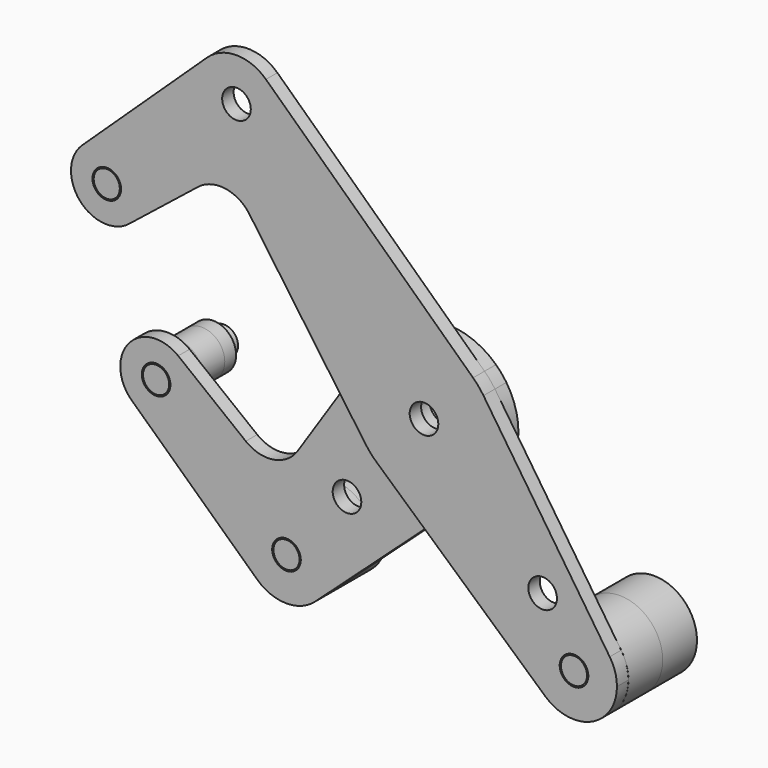
from build123d import *

# Parameters (mm, degrees)
F0_R      = 3.175
F0_R_2    = 3.96875
F2_DEPTH  = 3.175
F3_DEPTH  = 3.175
F4_R      = 9.525
F6_DEPTH  = 12.7
F4_R_2    = 5.08
F5_R      = 9.525
F5_R_2    = 5.08
F7_OFFSET = 0.0254
F8_SIZE   = 0.254
F8_2_SIZE = 0.254
F8_3_SIZE = 0.254
F8_4_SIZE = 0.254


with BuildPart() as f2:
    # F0 (on Front) → F2 (new body)
    with BuildSketch(Plane.XZ):
        with BuildLine():
            ThreePointArc((26.9262440233, -45.4676864135), (37.1682864336, -47.0737686401), (42.8102251661, -38.3762138003))
            ThreePointArc((42.8102251661, -38.3762138003), (42.3999454948, -35.6108027404), (41.2044512386, -33.0836262089))
            ThreePointArc((41.2044512386, -33.0836262089), (27.0442454474, -31.1806737127), (26.9262440233, -45.4676864135))
        make_face()
        with Locations((33.2852251661, -38.3762138003)):
            Circle(F0_R, mode=Mode.SUBTRACT)
        with BuildLine():
            ThreePointArc((-32.0815314576, 47.9702672503), (-32.8608164346, 51.7436071154), (-35.0711574392, 54.8995176744))
            ThreePointArc((-35.0711574392, 54.8995176744), (-41.6065314576, 57.4952672503), (-48.1419054761, 54.8995176744))
            ThreePointArc((-48.1419054761, 54.8995176744), (-45.3798713227, 39.2245522274), (-32.0815314576, 47.9702672503))
        make_face()
        with Locations((-41.6065314576, 47.9702672503)):
            Circle(F0_R, mode=Mode.SUBTRACT)
        with BuildLine():
            ThreePointArc((-62.4511918078, 23.0063483758), (-67.2442419203, 30.2944442282), (-75.8348368232, 28.7807237291))
            ThreePointArc((-75.8348368232, 28.7807237291), (-76.3849752141, 17.8055319436), (-65.4422370763, 16.798571653))
            ThreePointArc((-65.4422370763, 16.798571653), (-63.237943921, 19.5609585706), (-62.4511918078, 23.0063483758))
        make_face()
        with Locations((-70.3886918078, 23.0063483758)):
            Circle(F0_R, mode=Mode.SUBTRACT)
        with BuildLine():
            ThreePointArc((-12.9726166036, -9.1502373442), (-15.8730587934, -0.2482529814), (-13.2524193062, 8.7400805221))
            Line((-13.2524193062, 8.7400805221), (-19.2147683858, -0.3005169703))
            Line((-19.2147683858, -0.3005169703), (-12.9726166036, -9.1502373442))
        make_face()
        with BuildLine():
            Line((-10.5983019047, -11.8191210221), (0.0653932355, -21.3813431455))
            Line((0.0653932355, -21.3813431455), (10.6703987497, -11.7540722953))
            ThreePointArc((10.6703987497, -11.7540722953), (0.0485522706, -15.8749257534), (-10.5983019047, -11.8191210221))
        make_face()
        with BuildLine():
            ThreePointArc((26.9262440233, -45.4676864135), (27.0442454474, -31.1806737127), (41.2044512386, -33.0836262089))
            Line((41.2044512386, -33.0836262089), (13.1987101208, 8.820979319))
            ThreePointArc((13.1987101208, 8.820979319), (15.1912005478, 4.609018433), (15.875, 0))
            ThreePointArc((15.875, 0), (14.5156502636, -6.4274040191), (10.6703987497, -11.7540722953))
            Line((10.6703987497, -11.7540722953), (0.0653932355, -21.3813431455))
            Line((0.0653932355, -21.3813431455), (26.9262440233, -45.4676864135))
        make_face()
        with Locations((26.3222689506, -25.5025770961)):
            Circle(F0_R, mode=Mode.SUBTRACT)
        with BuildLine():
            ThreePointArc((15.875, 0), (15.1912005478, 4.609018433), (13.1987101208, 8.820979319))
            ThreePointArc((13.1987101208, 8.820979319), (12.1224690662, 10.2499448164), (10.8922900307, 11.5487507067))
            ThreePointArc((10.8922900307, 11.5487507067), (-1.834314477, 15.7686687897), (-13.2524193062, 8.7400805221))
            ThreePointArc((-13.2524193062, 8.7400805221), (-15.8730587934, -0.2482529814), (-12.9726166036, -9.1502373442))
            ThreePointArc((-12.9726166036, -9.1502373442), (-11.8607666217, -10.5516747555), (-10.5983019047, -11.8191210221))
            ThreePointArc((-10.5983019047, -11.8191210221), (0.0485522706, -15.8749257534), (10.6703987497, -11.7540722953))
            ThreePointArc((10.6703987497, -11.7540722953), (14.5156502636, -6.4274040191), (15.875, 0))
        make_face()
        Circle(F0_R_2, mode=Mode.SUBTRACT)
        with BuildLine():
            ThreePointArc((-13.2524193062, 8.7400805221), (-1.834314477, 15.7686687897), (10.8922900307, 11.5487507067))
            Line((10.8922900307, 11.5487507067), (-35.0711574392, 54.8995176744))
            ThreePointArc((-35.0711574392, 54.8995176744), (-32.8608164346, 51.7436071154), (-32.0815314576, 47.9702672503))
            ThreePointArc((-32.0815314576, 47.9702672503), (-45.3798713227, 39.2245522274), (-48.1419054761, 54.8995176744))
            Line((-48.1419054761, 54.8995176744), (-75.8348368232, 28.7807237291))
            ThreePointArc((-75.8348368232, 28.7807237291), (-67.2442419203, 30.2944442282), (-62.4511918078, 23.0063483758))
            ThreePointArc((-62.4511918078, 23.0063483758), (-63.237943921, 19.5609585706), (-65.4422370763, 16.798571653))
            Line((-65.4422370763, 16.798571653), (-50.1509863937, 28.9828821829))
            ThreePointArc((-50.1509863937, 28.9828821829), (-44.0823996147, 30.6328866939), (-38.7182233604, 27.3502241323))
            Line((-38.7182233604, 27.3502241323), (-19.2147683858, -0.3005169703))
            Line((-19.2147683858, -0.3005169703), (-13.2524193062, 8.7400805221))
        make_face()
        Circle(F0_R_2)
        Circle(F0_R, mode=Mode.SUBTRACT)
    extrude(amount=F2_DEPTH)


with BuildPart() as f3:
    # F0 (on Front) → F3 (new body)
    with BuildSketch(Plane.XZ):
        with BuildLine():
            ThreePointArc((15.875, 0), (15.1912005478, 4.609018433), (13.1987101208, 8.820979319))
            ThreePointArc((13.1987101208, 8.820979319), (12.1224690662, 10.2499448164), (10.8922900307, 11.5487507067))
            ThreePointArc((10.8922900307, 11.5487507067), (-1.834314477, 15.7686687897), (-13.2524193062, 8.7400805221))
            ThreePointArc((-13.2524193062, 8.7400805221), (-15.8730587934, -0.2482529814), (-12.9726166036, -9.1502373442))
            ThreePointArc((-12.9726166036, -9.1502373442), (-11.8607666217, -10.5516747555), (-10.5983019047, -11.8191210221))
            ThreePointArc((-10.5983019047, -11.8191210221), (0.0485522706, -15.8749257534), (10.6703987497, -11.7540722953))
            ThreePointArc((10.6703987497, -11.7540722953), (14.5156502636, -6.4274040191), (15.875, 0))
        make_face()
        Circle(F0_R_2, mode=Mode.SUBTRACT)
        with BuildLine():
            ThreePointArc((-12.9726166036, -9.1502373442), (-15.8730587934, -0.2482529814), (-13.2524193062, 8.7400805221))
            Line((-13.2524193062, 8.7400805221), (-19.2147683858, -0.3005169703))
            Line((-19.2147683858, -0.3005169703), (-12.9726166036, -9.1502373442))
        make_face()
        with BuildLine():
            Line((-10.5983019047, -11.8191210221), (0.0653932355, -21.3813431455))
            Line((0.0653932355, -21.3813431455), (10.6703987497, -11.7540722953))
            ThreePointArc((10.6703987497, -11.7540722953), (0.0485522706, -15.8749257534), (-10.5983019047, -11.8191210221))
        make_face()
        with BuildLine():
            Line((-26.647623873, -45.6315380732), (0.0653932355, -21.3813431455))
            Line((0.0653932355, -21.3813431455), (-10.5983019047, -11.8191210221))
            ThreePointArc((-10.5983019047, -11.8191210221), (-11.8607666217, -10.5516747555), (-12.9726166036, -9.1502373442))
            Line((-12.9726166036, -9.1502373442), (-19.2147683858, -0.3005169703))
            Line((-19.2147683858, -0.3005169703), (-30.5474012326, -17.4839744853))
            ThreePointArc((-30.5474012326, -17.4839744853), (-35.9047663103, -20.9493627188), (-42.0820013957, -19.3518512525))
            Line((-42.0820013957, -19.3518512525), (-57.0757936348, -7.5537803256))
            ThreePointArc((-57.0757936348, -7.5537803256), (-54.8440071189, -10.3244537385), (-54.0466841448, -13.7916973539))
            ThreePointArc((-54.0466841448, -13.7916973539), (-58.817458973, -21.070142101), (-67.394906617, -19.5992776228))
            Line((-67.394906617, -19.5992776228), (-39.5427300894, -45.5481910186))
            ThreePointArc((-39.5427300894, -45.5481910186), (-36.849933329, -29.8449609995), (-23.5248631228, -38.579094696))
            ThreePointArc((-23.5248631228, -38.579094696), (-24.3404729646, -42.4355371074), (-26.647623873, -45.6315380732))
        make_face()
        with Locations((-19.6233562292, -22.9063374758)):
            Circle(F0_R, mode=Mode.SUBTRACT)
        with BuildLine():
            ThreePointArc((-39.5427300894, -45.5481910186), (-33.1114263313, -48.1038957423), (-26.647623873, -45.6315380732))
            ThreePointArc((-26.647623873, -45.6315380732), (-24.3404729646, -42.4355371074), (-23.5248631228, -38.579094696))
            ThreePointArc((-23.5248631228, -38.579094696), (-36.849933329, -29.8449609995), (-39.5427300894, -45.5481910186))
        make_face()
        with Locations((-33.0498631228, -38.579094696)):
            Circle(F0_R, mode=Mode.SUBTRACT)
        with BuildLine():
            ThreePointArc((-57.0757936348, -7.5537803256), (-68.0121676911, -8.627656241), (-67.394906617, -19.5992776228))
            ThreePointArc((-67.394906617, -19.5992776228), (-58.817458973, -21.070142101), (-54.0466841448, -13.7916973539))
            ThreePointArc((-54.0466841448, -13.7916973539), (-54.8440071189, -10.3244537385), (-57.0757936348, -7.5537803256))
        make_face()
        with Locations((-61.9841841448, -13.7916973539)):
            Circle(F0_R, mode=Mode.SUBTRACT)
    extrude(amount=-F3_DEPTH)


with BuildPart() as f6:
    # F4 (on face) → F6 (new body, through all)
    with BuildSketch(Plane.XZ.offset(3.175)):
        with Locations((33.2852251661, -38.3762138003)):
            Circle(F4_R)
    extrude(amount=-F6_DEPTH)

    # F7: cut F2, F3, each made larger all round first
    f7_tool = offset(f2.part, amount=F7_OFFSET, kind=Kind.INTERSECTION, mode=Mode.PRIVATE)
    add(f7_tool, mode=Mode.SUBTRACT)
    f7_tool1 = offset(f3.part, amount=F7_OFFSET, kind=Kind.INTERSECTION, mode=Mode.PRIVATE)
    add(f7_tool1, mode=Mode.SUBTRACT)

    # F8
    f8_edges = [f6.edges().sort_by_distance(p)[0] for p in [
        (30.135625, -3.175, -38.376214),
    ]]
    chamfer(f8_edges, length=F8_SIZE)



with BuildPart() as f6b:
    # F4 (on face) → F6, piece 2 (new body, through all)
    with BuildSketch(Plane.XZ.offset(3.175)):
        with Locations((-70.3886918078, 23.0063483758)):
            Circle(F4_R_2)
    extrude(amount=-F6_DEPTH)

    # F7: cut F2, F3, each made larger all round first
    f7_tool = offset(f2.part, amount=F7_OFFSET, kind=Kind.INTERSECTION, mode=Mode.PRIVATE)
    add(f7_tool, mode=Mode.SUBTRACT)
    f7_tool1 = offset(f3.part, amount=F7_OFFSET, kind=Kind.INTERSECTION, mode=Mode.PRIVATE)
    add(f7_tool1, mode=Mode.SUBTRACT)

    # F8#4
    f8_4_edges = [f6b.edges().sort_by_distance(p)[0] for p in [
        (-73.538292, -3.175, 23.006348),
    ]]
    chamfer(f8_4_edges, length=F8_4_SIZE)


with BuildPart() as f6c:
    # F5 (on face) → F6, piece 3 (new body, through all)
    with BuildSketch(Plane.XZ):
        with Locations((-33.0498631228, -38.579094696)):
            Circle(F5_R)
    extrude(amount=-F6_DEPTH)

    # F7: cut F2, F3, each made larger all round first
    f7_tool = offset(f2.part, amount=F7_OFFSET, kind=Kind.INTERSECTION, mode=Mode.PRIVATE)
    add(f7_tool, mode=Mode.SUBTRACT)
    f7_tool1 = offset(f3.part, amount=F7_OFFSET, kind=Kind.INTERSECTION, mode=Mode.PRIVATE)
    add(f7_tool1, mode=Mode.SUBTRACT)

    # F8#2
    f8_2_edges = [f6c.edges().sort_by_distance(p)[0] for p in [
        (-36.199463, 0, -38.579095),
    ]]
    chamfer(f8_2_edges, length=F8_2_SIZE)


with BuildPart() as f6d:
    # F5 (on face) → F6, piece 4 (new body, through all)
    with BuildSketch(Plane.XZ):
        with Locations((-61.9841841448, -13.7916973539)):
            Circle(F5_R_2)
    extrude(amount=-F6_DEPTH)

    # F7: cut F2, F3, each made larger all round first
    f7_tool = offset(f2.part, amount=F7_OFFSET, kind=Kind.INTERSECTION, mode=Mode.PRIVATE)
    add(f7_tool, mode=Mode.SUBTRACT)
    f7_tool1 = offset(f3.part, amount=F7_OFFSET, kind=Kind.INTERSECTION, mode=Mode.PRIVATE)
    add(f7_tool1, mode=Mode.SUBTRACT)

    # F8#3
    f8_3_edges = [f6d.edges().sort_by_distance(p)[0] for p in [
        (-65.133784, 0, -13.791697),
    ]]
    chamfer(f8_3_edges, length=F8_3_SIZE)


with BuildPart() as f6_1:
    add(f6.part)

    add(f6b.part)  # F9 merges F6b

    add(f6c.part)  # F9 merges F6c

    add(f6d.part)  # F9 merges F6d
    # F9: F6d, F6c, F6b, F6 across plane
    add(f6d.part.mirror(Plane.XZ.offset(-9.525)))
    add(f6c.part.mirror(Plane.XZ.offset(-9.525)))
    add(f6b.part.mirror(Plane.XZ.offset(-9.525)))
    add(f6.part.mirror(Plane.XZ.offset(-9.525)))


solid = Compound([f2.part, f3.part, f6_1.part])
